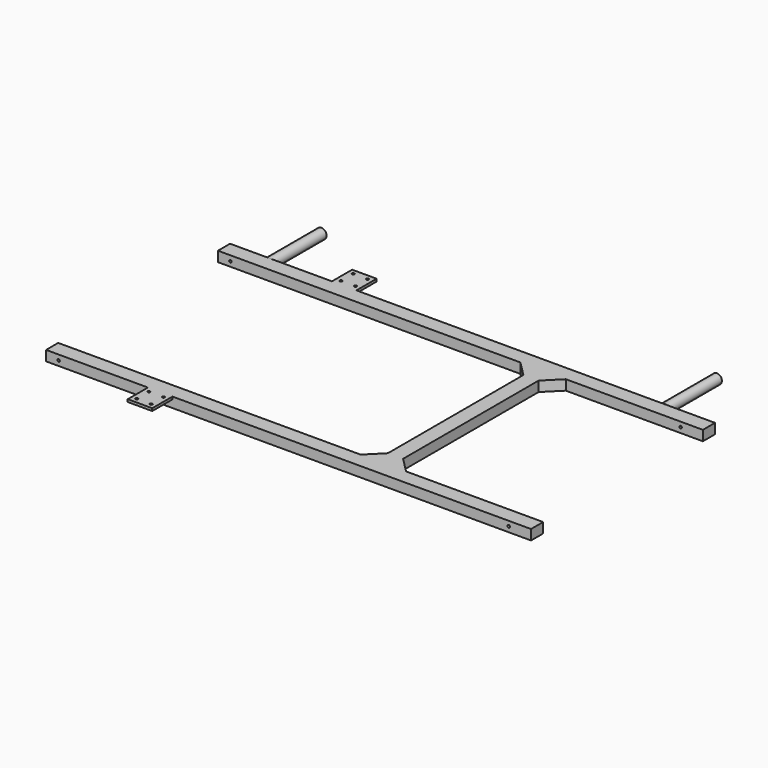
from build123d import *

# Parameters (mm, degrees)
F1_DEPTH = 25.4
F0_W     = 61.5815903664
F0_H     = 63.5
F0_R     = 3.2016098653
F2_DEPTH = 6.35
F4_D     = 6.35
F5_D     = 6.35
F6_R     = 12.509972913
F7_DEPTH = 165.1
F8_R     = 12.94146472
F9_DEPTH = 165.1


with BuildPart() as f1:
    # F0 (on Top) → F1 (new body)
    with BuildSketch(Plane.XY):
        Polygon((-353.4871935844, 0), (-609.6, 0), (-609.6, -38.1), (150.7397797585, -38.1), (188.8397797585, -38.1), (226.9397797585, -38.1), (265.0397797585, -38.1), (609.6, -38.1), (609.6, 0), (-291.9056032181, 0), align=None)
        Polygon((226.9397797585, -540.0910377502), (188.8397797585, -540.0910377502), (150.7397797585, -540.0910377502), (-609.6, -540.0910377502), (-609.6, -578.1910377502), (-353.4871935844, -578.1910377502), (-291.9056032181, -578.1910377502), (609.6, -578.1910377502), (609.6, -540.0910377502), (265.0397797585, -540.0910377502), align=None)
        Polygon((188.8397797585, -540.0910377502), (188.8397797585, -501.9910377502), (150.7397797585, -540.0910377502), align=None)
        Polygon((265.0397797585, -540.0910377502), (226.9397797585, -501.9910377502), (226.9397797585, -540.0910377502), align=None)
        Polygon((226.9397797585, -38.1), (188.8397797585, -38.1), (188.8397797585, -76.2), (188.8397797585, -501.9910377502), (188.8397797585, -540.0910377502), (226.9397797585, -540.0910377502), (226.9397797585, -501.9910377502), (226.9397797585, -76.2), align=None)
        Polygon((188.8397797585, -38.1), (150.7397797585, -38.1), (188.8397797585, -76.2), align=None)
        Polygon((265.0397797585, -38.1), (226.9397797585, -38.1), (226.9397797585, -76.2), align=None)
    extrude(amount=-F1_DEPTH)

    # F0 (on Top) → F2 (join)
    with BuildSketch(Plane.XY):
        with Locations((-322.6963984013, -609.9410377502)):
            Rectangle(F0_W, F0_H)
        with Locations((-340.7871935844, -628.9910377502)):
            Circle(F0_R, mode=Mode.SUBTRACT)
        with Locations((-340.7871935844, -590.8910377502)):
            Circle(F0_R, mode=Mode.SUBTRACT)
        with Locations((-304.6056032181, -628.9910377502)):
            Circle(F0_R, mode=Mode.SUBTRACT)
        with Locations((-304.6056032181, -590.8910377502)):
            Circle(F0_R, mode=Mode.SUBTRACT)
        with Locations((-322.6963984013, 31.75)):
            Rectangle(F0_W, F0_H)
        with Locations((-340.7871935844, 12.7)):
            Circle(F0_R, mode=Mode.SUBTRACT)
        with Locations((-340.7871935844, 50.8)):
            Circle(F0_R, mode=Mode.SUBTRACT)
        with Locations((-304.6056032181, 12.7)):
            Circle(F0_R, mode=Mode.SUBTRACT)
        with Locations((-304.6056032181, 50.8)):
            Circle(F0_R, mode=Mode.SUBTRACT)
    extrude(amount=-F2_DEPTH)

    # F4 (through all)
    with Locations(Plane.XZ.offset(578.1910377502)):
        with Locations((-578.1368017197, -13.2161937654)):
            Hole(F4_D / 2)

    # F5 (through all)
    with Locations(Plane.XZ.offset(578.1910377502)):
        with Locations((553.6159609795, -12.3214880005)):
            Hole(F5_D / 2)


with BuildPart() as f7:
    # F6 (on Front) → F7 (new body)
    with BuildSketch(Plane.XZ):
        with Locations((482.4052453041, -11.3475965336)):
            Circle(F6_R)
    extrude(amount=-F7_DEPTH)


with BuildPart() as f9:
    # F8 (on Front) → F9 (new body)
    with BuildSketch(Plane.XZ):
        with Locations((-512.0095014572, -13.1261823699)):
            Circle(F8_R)
    extrude(amount=-F9_DEPTH)


solid = Compound([f1.part, f7.part, f9.part])
